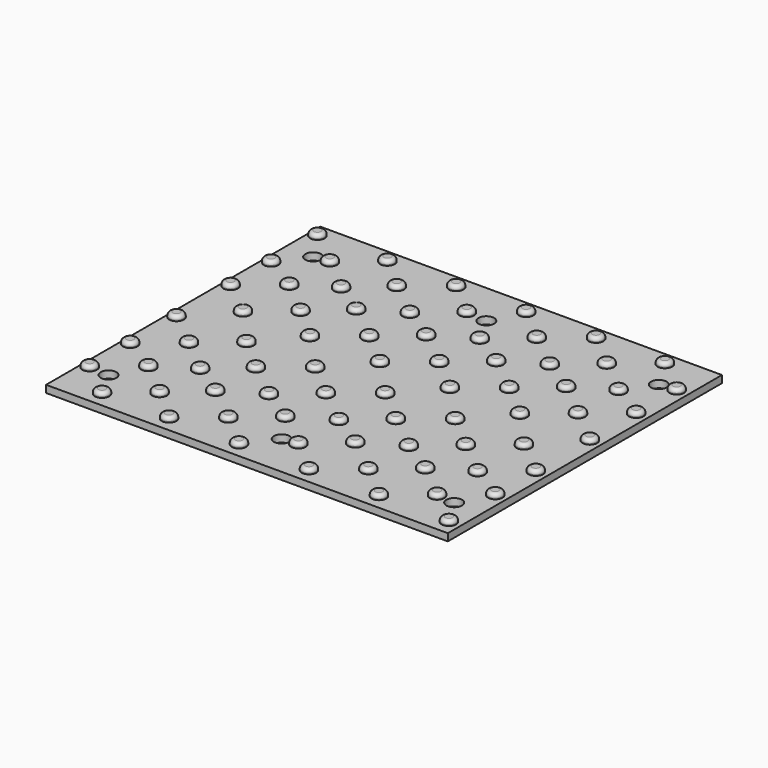
from build123d import *

# Parameters (mm, degrees)
F0_W     = 164.5
F0_H     = 138
F1_DEPTH = 3
F2_R     = 3.25
F3_DEPTH = 25
F4_DEPTH = 2
F5_DEPTH = 2
F6_DEPTH = 1
F7_DEPTH = 1
F8_R     = 3
F9_DEPTH = 2
F10_R    = 1.5


with BuildPart() as f1:
    # F0 (on Top) → F1 (new body)
    with BuildSketch(Plane.XY):
        with Locations((82.25, -69)):
            Rectangle(F0_W, F0_H)
    extrude(amount=F1_DEPTH)

    # F2 (on face) → F3 (cut)
    with BuildSketch(Plane.XY.offset(3)):
        with Locations((153.75, -122)):
            Circle(F2_R)
        with Locations((153.75, -16)):
            Circle(F2_R)
        with Locations((82.25, -16)):
            Circle(F2_R)
        with Locations((10.5, -16)):
            Circle(F2_R)
        with Locations((82.25, -122)):
            Circle(F2_R)
        with Locations((10.5, -122)):
            Circle(F2_R)
    extrude(amount=-F3_DEPTH, mode=Mode.SUBTRACT)

    # F4 (add): a face of the model
    f4_faces = [f1.faces().sort_by_distance(p)[0] for p in [
        (82.25, 0, 1.5),
    ]]
    extrude(f4_faces, amount=F4_DEPTH)

    # F5 (add): a face of the model
    f5_faces = [f1.faces().sort_by_distance(p)[0] for p in [
        (82.25, -138, 1.5),
    ]]
    extrude(f5_faces, amount=F5_DEPTH)

    # F6 (add): a face of the model
    f6_faces = [f1.faces().sort_by_distance(p)[0] for p in [
        (164.5, -69, 1.5),
    ]]
    extrude(f6_faces, amount=F6_DEPTH)

    # F7 (add): a face of the model
    f7_faces = [f1.faces().sort_by_distance(p)[0] for p in [
        (0, -69, 1.5),
    ]]
    extrude(f7_faces, amount=F7_DEPTH)

    # F8 (on face) → F9 (join)
    with BuildSketch(Plane.XY.offset(3)):
        with Locations((160.800000051, -133.5558722615)):
            Circle(F8_R)
        with Locations((131.800000051, -133.5558722615)):
            Circle(F8_R)
        with Locations((102.800000051, -133.5558722615)):
            Circle(F8_R)
        with Locations((73.800000051, -133.5558722615)):
            Circle(F8_R)
        with Locations((44.800000051, -133.5558722615)):
            Circle(F8_R)
        with Locations((17.050000051, -133.5558722615)):
            Circle(F8_R)
        with Locations((146.300000051, -121.5558722615)):
            Circle(F8_R)
        with Locations((117.800000051, -121.5558722615)):
            Circle(F8_R)
        with Locations((88.800000051, -121.5558722615)):
            Circle(F8_R)
        with Locations((59.800000051, -121.5558722615)):
            Circle(F8_R)
        with Locations((31.300000051, -121.5558722615)):
            Circle(F8_R)
        with Locations((2.300000051, -121.5558722615)):
            Circle(F8_R)
        with Locations((160.800000051, -109.5558722615)):
            Circle(F8_R)
        with Locations((131.800000051, -109.5558722615)):
            Circle(F8_R)
        with Locations((102.800000051, -109.5558722615)):
            Circle(F8_R)
        with Locations((73.800000051, -109.5558722615)):
            Circle(F8_R)
        with Locations((44.800000051, -109.5558722615)):
            Circle(F8_R)
        with Locations((17.050000051, -109.5558722615)):
            Circle(F8_R)
        with Locations((146.300000051, -100.5558722615)):
            Circle(F8_R)
        with Locations((117.800000051, -100.5558722615)):
            Circle(F8_R)
        with Locations((88.800000051, -100.5558722615)):
            Circle(F8_R)
        with Locations((59.800000051, -100.5558722615)):
            Circle(F8_R)
        with Locations((31.300000051, -100.5558722615)):
            Circle(F8_R)
        with Locations((2.300000051, -100.5558722615)):
            Circle(F8_R)
        with Locations((160.800000051, -88.5558722615)):
            Circle(F8_R)
        with Locations((131.800000051, -88.5558722615)):
            Circle(F8_R)
        with Locations((102.800000051, -88.5558722615)):
            Circle(F8_R)
        with Locations((73.800000051, -88.5558722615)):
            Circle(F8_R)
        with Locations((44.800000051, -88.5558722615)):
            Circle(F8_R)
        with Locations((17.050000051, -88.5558722615)):
            Circle(F8_R)
        with Locations((146.300000051, -76.5558722615)):
            Circle(F8_R)
        with Locations((117.800000051, -76.5558722615)):
            Circle(F8_R)
        with Locations((88.800000051, -76.5558722615)):
            Circle(F8_R)
        with Locations((59.800000051, -76.5558722615)):
            Circle(F8_R)
        with Locations((31.300000051, -76.5558722615)):
            Circle(F8_R)
        with Locations((2.300000051, -76.5558722615)):
            Circle(F8_R)
        with Locations((160.800000051, -60.5558722615)):
            Circle(F8_R)
        with Locations((131.800000051, -60.5558722615)):
            Circle(F8_R)
        with Locations((102.800000051, -60.5558722615)):
            Circle(F8_R)
        with Locations((73.800000051, -60.5558722615)):
            Circle(F8_R)
        with Locations((44.800000051, -60.5558722615)):
            Circle(F8_R)
        with Locations((17.050000051, -60.5558722615)):
            Circle(F8_R)
        with Locations((146.300000051, -48.5558722615)):
            Circle(F8_R)
        with Locations((117.800000051, -48.5558722615)):
            Circle(F8_R)
        with Locations((88.800000051, -48.5558722615)):
            Circle(F8_R)
        with Locations((59.800000051, -48.5558722615)):
            Circle(F8_R)
        with Locations((31.300000051, -48.5558722615)):
            Circle(F8_R)
        with Locations((2.300000051, -48.5558722615)):
            Circle(F8_R)
        with Locations((160.800000051, -36.5558722615)):
            Circle(F8_R)
        with Locations((131.800000051, -36.5558722615)):
            Circle(F8_R)
        with Locations((102.800000051, -36.5558722615)):
            Circle(F8_R)
        with Locations((73.800000051, -36.5558722615)):
            Circle(F8_R)
        with Locations((44.800000051, -36.5558722615)):
            Circle(F8_R)
        with Locations((17.050000051, -36.5558722615)):
            Circle(F8_R)
        with Locations((146.300000051, -27.5558722615)):
            Circle(F8_R)
        with Locations((117.800000051, -27.5558722615)):
            Circle(F8_R)
        with Locations((88.800000051, -27.5558722615)):
            Circle(F8_R)
        with Locations((59.800000051, -27.5558722615)):
            Circle(F8_R)
        with Locations((31.300000051, -27.5558722615)):
            Circle(F8_R)
        with Locations((2.300000051, -27.5558722615)):
            Circle(F8_R)
        with Locations((160.800000051, -15.5558722615)):
            Circle(F8_R)
        with Locations((131.800000051, -15.5558722615)):
            Circle(F8_R)
        with Locations((102.800000051, -15.5558722615)):
            Circle(F8_R)
        with Locations((73.800000051, -15.5558722615)):
            Circle(F8_R)
        with Locations((44.800000051, -15.5558722615)):
            Circle(F8_R)
        with Locations((17.050000051, -15.5558722615)):
            Circle(F8_R)
        with Locations((146.300000051, -3.5558722615)):
            Circle(F8_R)
        with Locations((117.800000051, -3.5558722615)):
            Circle(F8_R)
        with Locations((88.800000051, -3.5558722615)):
            Circle(F8_R)
        with Locations((59.800000051, -3.5558722615)):
            Circle(F8_R)
        with Locations((31.300000051, -3.5558722615)):
            Circle(F8_R)
        with Locations((2.300000051, -3.5558722615)):
            Circle(F8_R)
    extrude(amount=F9_DEPTH)

    # F10
    f10_edges = [f1.edges().sort_by_distance(p)[0] for p in [
        (157.8, -133.555872, 5),
        (157.8, -109.555872, 5),
        (157.8, -88.555872, 5),
        (143.3, -100.555872, 5),
        (143.3, -121.555872, 5),
        (128.8, -133.555872, 5),
        (128.8, -109.555872, 5),
        (128.8, -88.555872, 5),
        (143.3, -76.555872, 5),
        (128.8, -60.555872, 5),
        (157.8, -60.555872, 5),
        (143.3, -48.555872, 5),
        (128.8, -36.555872, 5),
        (143.3, -27.555872, 5),
        (157.8, -36.555872, 5),
        (157.8, -15.555872, 5),
        (143.3, -3.555872, 5),
        (128.8, -15.555872, 5),
        (114.8, -3.555872, 5),
        (114.8, -27.555872, 5),
        (114.8, -48.555872, 5),
        (114.8, -76.555872, 5),
        (114.8, -100.555872, 5),
        (114.8, -121.555872, 5),
        (99.8, -133.555872, 5),
        (99.8, -109.555872, 5),
        (99.8, -88.555872, 5),
        (99.8, -60.555872, 5),
        (99.8, -36.555872, 5),
        (99.8, -15.555872, 5),
        (85.8, -3.555872, 5),
        (85.8, -27.555872, 5),
        (85.8, -48.555872, 5),
        (85.8, -76.555872, 5),
        (85.8, -100.555872, 5),
        (85.8, -121.555872, 5),
        (70.8, -133.555872, 5),
        (70.8, -109.555872, 5),
        (70.8, -88.555872, 5),
        (70.8, -60.555872, 5),
        (70.8, -36.555872, 5),
        (70.8, -15.555872, 5),
        (56.8, -3.555872, 5),
        (56.8, -27.555872, 5),
        (56.8, -48.555872, 5),
        (56.8, -76.555872, 5),
        (56.8, -100.555872, 5),
        (56.8, -121.555872, 5),
        (41.8, -133.555872, 5),
        (41.8, -109.555872, 5),
        (41.8, -88.555872, 5),
        (41.8, -60.555872, 5),
        (41.8, -36.555872, 5),
        (41.8, -15.555872, 5),
        (28.3, -3.555872, 5),
        (28.3, -27.555872, 5),
        (28.3, -48.555872, 5),
        (28.3, -76.555872, 5),
        (28.3, -100.555872, 5),
        (28.3, -121.555872, 5),
        (14.05, -133.555872, 5),
        (14.05, -109.555872, 5),
        (14.05, -88.555872, 5),
        (14.05, -60.555872, 5),
        (14.05, -36.555872, 5),
        (14.05, -15.555872, 5),
        (-0.7, -3.555872, 5),
        (-0.7, -48.555872, 5),
        (-0.7, -76.555872, 5),
        (-0.7, -27.555872, 5),
        (-0.7, -100.555872, 5),
        (-0.7, -121.555872, 5),
    ]]
    fillet(f10_edges, radius=F10_R)


solid = f1.part
